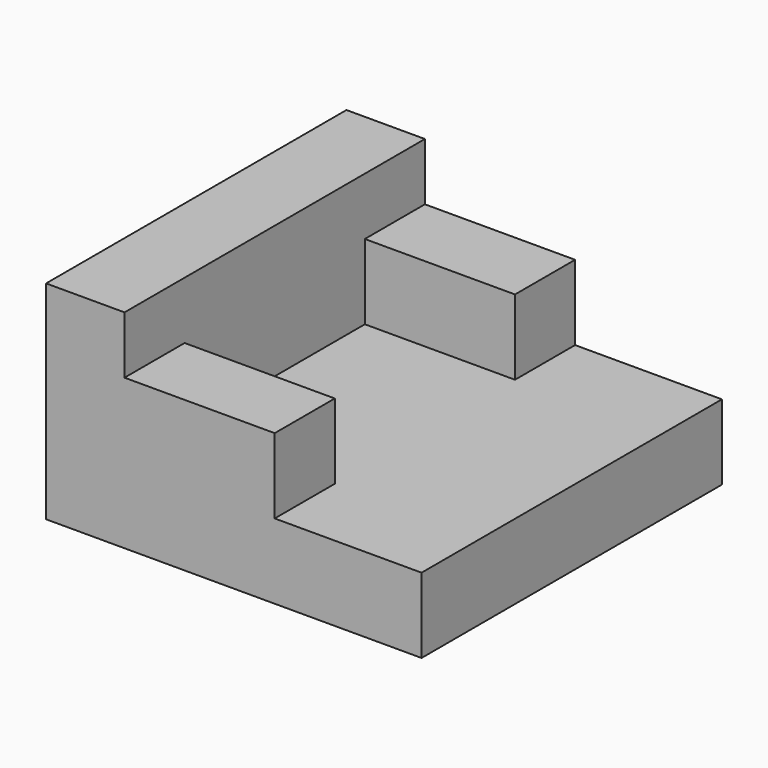
from build123d import *

# Parameters (mm, degrees)
F0_W     = 63.5
F0_H     = 12.7
F1_DEPTH = 63.5
F2_W     = 13.266523
F2_H     = 22.422786
F3_DEPTH = 63.5
F4_W     = 12.7
F4_H     = 12.7
F5_DEPTH = 25.4
F6_W     = 12.7
F6_H     = 12.7
F7_DEPTH = 25.4


with BuildPart() as f1:
    # F0 (on Front) → F1 (new body)
    with BuildSketch(Plane.XZ):
        with Locations((-6.000457, 6.35)):
            Rectangle(F0_W, F0_H)
    extrude(amount=F1_DEPTH)

    # F2 (on Front) → F3 (join)
    with BuildSketch(Plane.XZ):
        with Locations((-31.117195, 23.911393)):
            Rectangle(F2_W, F2_H)
    extrude(amount=F3_DEPTH)

    # F4 (on face) → F5 (join)
    with BuildSketch(Plane.YZ.offset(-24.483934)):
        with Locations((-57.15, 19.05)):
            Rectangle(F4_W, F4_H)
    extrude(amount=F5_DEPTH)

    # F6 (on face) → F7 (join)
    with BuildSketch(Plane.YZ.offset(-24.483934)):
        with Locations((-6.35, 19.05)):
            Rectangle(F6_W, F6_H)
    extrude(amount=F7_DEPTH)


solid = f1.part
